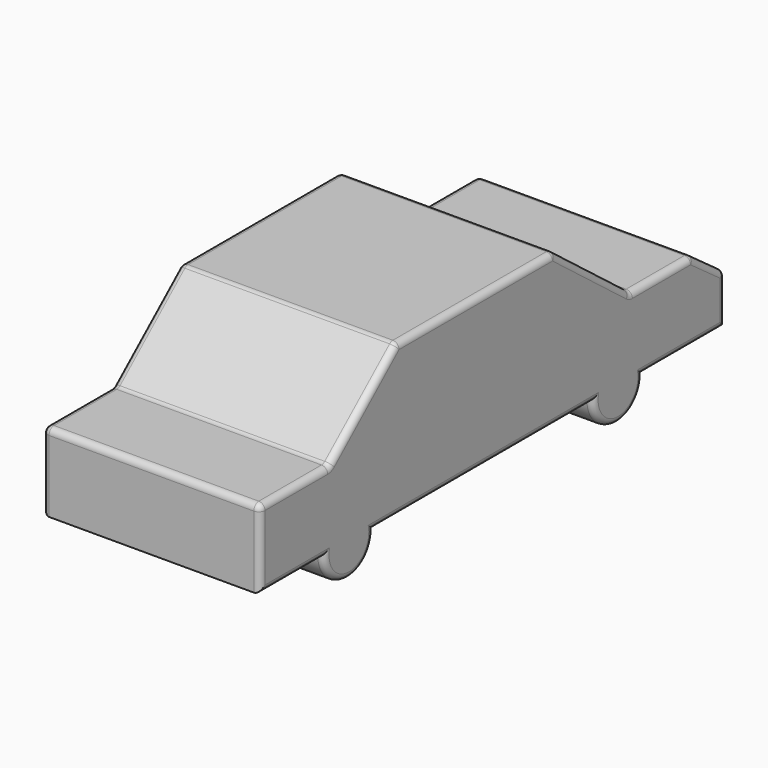
from build123d import *

# Parameters (mm, degrees)
F1_DEPTH = 1746
F2_R     = 50


with BuildPart() as f1:
    # F0 (on Right) → F1 (new body)
    with BuildSketch(Plane.YZ):
        with BuildLine():
            Line((-893.317626, 0), (-250, 0))
            ThreePointArc((-250, 0), (0, -250), (250, 0))
            Line((250, 0), (2455, 0))
            ThreePointArc((2455, 0), (2705, -250), (2955, 0))
            Line((2955, 0), (3781.682374, 0))
            Line((3781.682374, 0), (3781.682374, 386.205596))
            Line((3781.682374, 386.205596), (3450.925427, 626.756124))
            Line((3450.925427, 626.756124), (2832.071233, 626.756124))
            Line((2832.071233, 626.756124), (2063.499264, 1218))
            Line((2063.499264, 1218), (485.731525, 1218))
            Line((485.731525, 1218), (-194.199075, 626.756124))
            Line((-194.199075, 626.756124), (-893.317626, 626.756124))
            Line((-893.317626, 626.756124), (-893.317626, 0))
        make_face()
    extrude(amount=F1_DEPTH)

    # F2
    f2_edges = [f1.edges().sort_by_distance(p)[0] for p in [
        (1746, -543.75835, 626.756124),
        (1746, -893.317626, 313.378062),
        (1746, -571.658813, 0),
        (1746, 0, -250),
        (1746, 1352.5, 0),
        (1746, 2705, -250),
        (1746, 3368.341187, 0),
        (1746, 3781.682374, 193.102798),
        (1746, 3616.3039, 506.48086),
        (1746, 3141.49833, 626.756124),
        (1746, 2447.785249, 922.378062),
        (1746, 1274.615395, 1218),
        (1746, 145.766225, 922.378062),
        (0, -543.75835, 626.756124),
        (0, -893.317626, 313.378062),
        (0, -571.658813, 0),
        (0, 0, -250),
        (0, 1352.5, 0),
        (0, 2705, -250),
        (0, 3368.341187, 0),
        (0, 3781.682374, 193.102798),
        (0, 3616.3039, 506.48086),
        (0, 3141.49833, 626.756124),
        (0, 2447.785249, 922.378062),
        (0, 1274.615395, 1218),
        (0, 145.766225, 922.378062),
        (873, 485.731525, 1218),
        (873, -194.199075, 626.756124),
        (873, 2832.071233, 626.756124),
        (873, 2063.499264, 1218),
        (873, 3781.682374, 386.205596),
        (873, 3450.925427, 626.756124),
        (873, -893.317626, 626.756124),
    ]]
    fillet(f2_edges, radius=F2_R)


solid = f1.part
